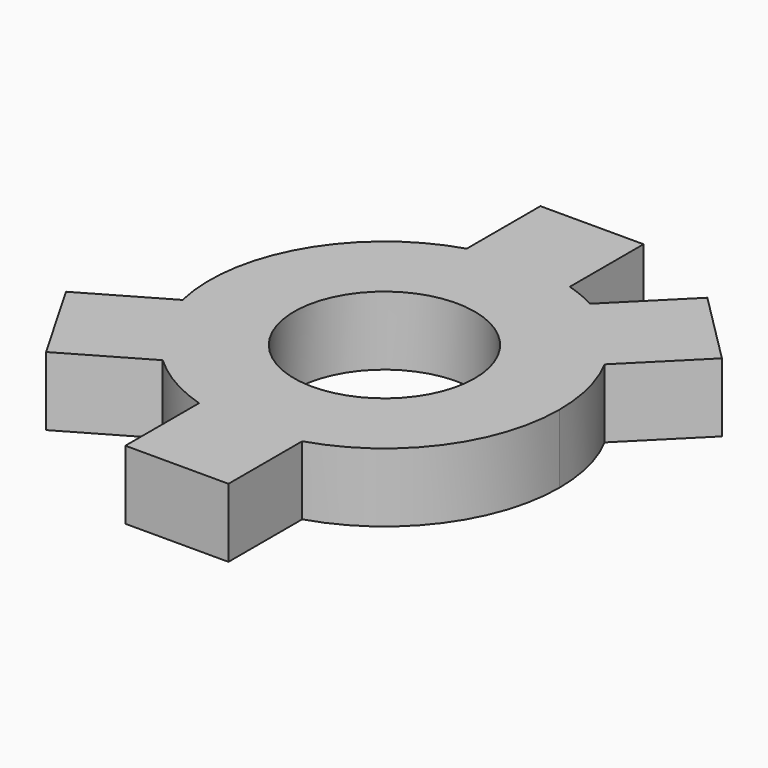
from build123d import *

# Parameters (mm, degrees)
F0_R     = 33.383314
F1_DEPTH = 25.4


with BuildPart() as f1:
    # F0 (on Top) → F1 (new body)
    with BuildSketch(Plane.XY):
        with BuildLine():
            ThreePointArc((19.05, -61.818347), (52.041802, -38.419545), (64.68702, 0))
            ThreePointArc((64.68702, 0), (62.782879, 15.579496), (57.182557, 30.241789))
            ThreePointArc((57.182557, 30.241789), (45.740631, 45.740631), (30.241789, 57.182557))
            ThreePointArc((30.241789, 57.182557), (24.754651, 59.763014), (19.05, 61.818347))
            ThreePointArc((19.05, 61.818347), (0, 64.68702), (-19.05, 61.818347))
            ThreePointArc((-19.05, 61.818347), (-56.020603, 32.34351), (-63.061259, -14.41139))
            ThreePointArc((-63.061259, -14.41139), (-56.020603, -32.34351), (-44.011259, -47.406958))
            ThreePointArc((-44.011259, -47.406958), (-32.34351, -56.020603), (-19.05, -61.818347))
            ThreePointArc((-19.05, -61.818347), (0, -64.68702), (19.05, -61.818347))
        make_face()
        Circle(F0_R, mode=Mode.SUBTRACT)
        with BuildLine():
            ThreePointArc((30.241789, 57.182557), (45.740631, 45.740631), (57.182557, 30.241789))
            Line((57.182557, 30.241789), (81.250356, 54.309588))
            Line((81.250356, 54.309588), (67.779972, 67.779972))
            Line((67.779972, 67.779972), (54.309588, 81.250356))
            Line((54.309588, 81.250356), (30.241789, 57.182557))
        make_face()
        with BuildLine():
            Line((19.05, -95.855356), (19.05, -61.818347))
            ThreePointArc((19.05, -61.818347), (0, -64.68702), (-19.05, -61.818347))
            Line((-19.05, -61.818347), (-19.05, -95.855356))
            Line((-19.05, -95.855356), (0, -95.855356))
            Line((0, -95.855356), (19.05, -95.855356))
        make_face()
        with BuildLine():
            ThreePointArc((-19.05, 61.818347), (0, 64.68702), (19.05, 61.818347))
            Line((19.05, 61.818347), (19.05, 95.855356))
            Line((19.05, 95.855356), (0, 95.855356))
            Line((0, 95.855356), (-19.05, 95.855356))
            Line((-19.05, 95.855356), (-19.05, 61.818347))
        make_face()
        with BuildLine():
            Line((-73.488173, -64.425462), (-44.011259, -47.406958))
            ThreePointArc((-44.011259, -47.406958), (-56.020603, -32.34351), (-63.061259, -14.41139))
            Line((-63.061259, -14.41139), (-92.538173, -31.429894))
            Line((-92.538173, -31.429894), (-83.013173, -47.927678))
            Line((-83.013173, -47.927678), (-73.488173, -64.425462))
        make_face()
    extrude(amount=F1_DEPTH)


solid = f1.part
